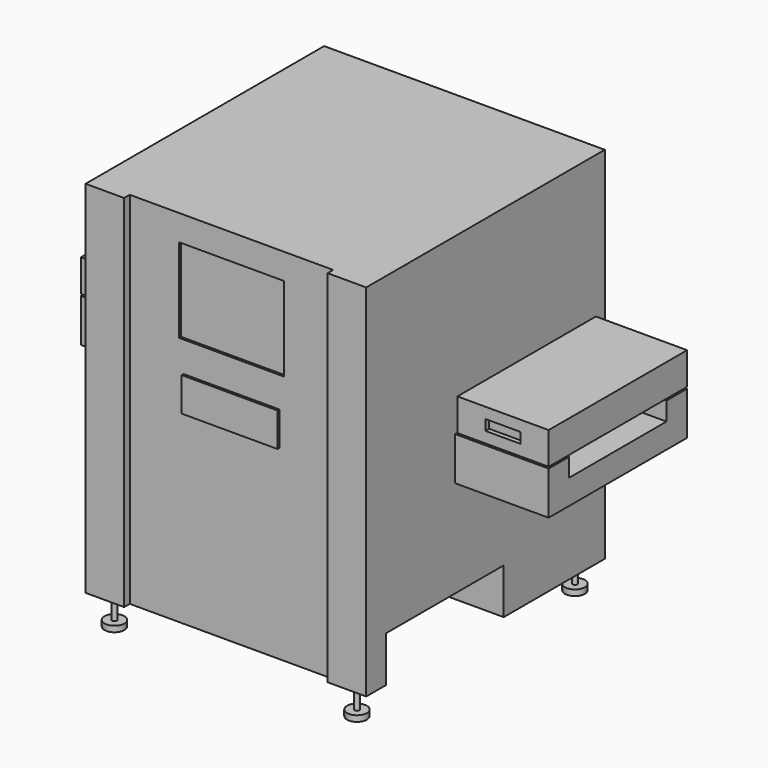
from build123d import *

# Parameters (mm, degrees)
F0_W       = 1200
F0_H       = 1275
F1_DEPTH   = 1540
F2_W       = 1200
F2_H       = 630
F3_DEPTH   = 195
F4_W       = 870
F4_H       = 1540
F5_DEPTH   = 30
F6_W       = 740
F6_H       = 330
F7_DEPTH   = 400
F7_FACE_W  = 740
F7_FACE_H  = 330
F8_DEPTH   = 2000
F9_W       = 520
F9_H       = 80
F10_DEPTH  = 2000.001
F11_W      = 450
F11_H      = 360
F12_DEPTH  = 20
F12_FACE_W = 450
F12_FACE_H = 360
F13_DEPTH  = 10
F14_W      = 10
F14_H      = 145
F15_DEPTH  = 800.001
F16_W      = 10
F16_H      = 145
F17_DEPTH  = 800.001
F18_W      = 390
F18_H      = 7
F19_DEPTH  = 15
F20_W      = 390
F20_H      = 7
F21_DEPTH  = 15
F22_W      = 725
F22_H      = 7
F23_DEPTH  = 15
F24_W      = 375
F24_H      = 7
F25_DEPTH  = 15
F26_W      = 390
F26_H      = 7
F27_DEPTH  = 15
F28_W      = 710
F28_H      = 7
F29_DEPTH  = 15
F30_W      = 410
F30_H      = 145
F31_DEPTH  = 10
F32_W      = 145.043777
F32_H      = 45
F33_DEPTH  = 30
F33_FACE_W = 145.043778
F33_FACE_H = 45
F34_DEPTH  = 10
F35_W      = 150
F35_H      = 45
F36_DEPTH  = 30
F36_FACE_W = 150
F36_FACE_H = 45
F37_DEPTH  = 10
F39_R      = 42.5
F40_DEPTH  = 25
F41_R      = 10
F42_DEPTH  = 110


with BuildPart() as f1:
    # F0 (on Top) → F1 (new body)
    with BuildSketch(Plane.XY):
        Rectangle(F0_W, F0_H)
    extrude(amount=F1_DEPTH)

    # F2 (on face) → F3 (cut)
    with BuildSketch(Plane(origin=(0, 0, 0), x_dir=(1, 0, 0), z_dir=(0, 0, -1))):
        with Locations((0, 217.5)):
            Rectangle(F2_W, F2_H)
    extrude(amount=-F3_DEPTH, mode=Mode.SUBTRACT)

    # F4 (on face) → F5 (cut)
    with BuildSketch(Plane.XZ.offset(637.5)):
        with Locations((0, 770)):
            Rectangle(F4_W, F4_H)
    extrude(amount=-F5_DEPTH, mode=Mode.SUBTRACT)

    # F6 (on face) → F7 (join)
    with BuildSketch(Plane.YZ.offset(600)):
        with Locations((207.5, 775)):
            Rectangle(F6_W, F6_H)
    extrude(amount=F7_DEPTH)

    # F7_face (on face) → F8 (join)
    with BuildSketch(Plane(origin=(1000, 207.5, 775), x_dir=(0, 1, 0), z_dir=(1, 0, 0))):
        Rectangle(F7_FACE_W, F7_FACE_H)
    extrude(amount=-F8_DEPTH)

    # F9 (on face) → F10 (cut, through all)
    with BuildSketch(Plane.YZ.offset(1000)):
        with Locations((207.5, 756.00878)):
            Rectangle(F9_W, F9_H)
    extrude(amount=-F10_DEPTH, mode=Mode.SUBTRACT)

    # F11 (on face) → F12 (cut)
    with BuildSketch(Plane.XZ.offset(607.5)):
        with Locations((0, 1250)):
            Rectangle(F11_W, F11_H)
    extrude(amount=-F12_DEPTH, mode=Mode.SUBTRACT)

    # F14 (on face) → F15 (cut, through all)
    with BuildSketch(Plane.XZ.offset(162.5)):
        with Locations((605, 867.5)):
            Rectangle(F14_W, F14_H)
    extrude(amount=-F15_DEPTH, mode=Mode.SUBTRACT)

    # F16 (on face) → F17 (cut, through all)
    with BuildSketch(Plane.XZ.offset(162.5)):
        with Locations((-605, 867.5)):
            Rectangle(F16_W, F16_H)
    extrude(amount=-F17_DEPTH, mode=Mode.SUBTRACT)

    # F18 (on face) → F19 (cut)
    with BuildSketch(Plane.XZ.offset(162.5)):
        with Locations((-805, 798.5)):
            Rectangle(F18_W, F18_H)
    extrude(amount=-F19_DEPTH, mode=Mode.SUBTRACT)

    # F20 (on face) → F21 (cut)
    with BuildSketch(Plane.XZ.offset(162.5)):
        with Locations((805, 798.5)):
            Rectangle(F20_W, F20_H)
    extrude(amount=-F21_DEPTH, mode=Mode.SUBTRACT)

    # F22 (on face) → F23 (cut)
    with BuildSketch(Plane.YZ.offset(1000)):
        with Locations((215, 798.5)):
            Rectangle(F22_W, F22_H)
    extrude(amount=-F23_DEPTH, mode=Mode.SUBTRACT)

    # F24 (on face) → F25 (cut)
    with BuildSketch(Plane(origin=(0, 577.5, 0), x_dir=(-1, 0, 0), z_dir=(0, 1, 0))):
        with Locations((-797.5, 798.5)):
            Rectangle(F24_W, F24_H)
    extrude(amount=-F25_DEPTH, mode=Mode.SUBTRACT)

    # F26 (on face) → F27 (cut)
    with BuildSketch(Plane(origin=(0, 577.5, 0), x_dir=(-1, 0, 0), z_dir=(0, 1, 0))):
        with Locations((805, 798.5)):
            Rectangle(F26_W, F26_H)
    extrude(amount=-F27_DEPTH, mode=Mode.SUBTRACT)

    # F28 (on face) → F29 (cut)
    with BuildSketch(Plane(origin=(-1000, 0, 0), x_dir=(0, -1, 0), z_dir=(-1, 0, 0))):
        with Locations((-207.5, 798.5)):
            Rectangle(F28_W, F28_H)
    extrude(amount=-F29_DEPTH, mode=Mode.SUBTRACT)

    # F30 (on face) → F31 (join)
    with BuildSketch(Plane.XZ.offset(607.5)):
        with Locations((0, 867.5)):
            Rectangle(F30_W, F30_H)
    extrude(amount=F31_DEPTH)

    # F32 (on face) → F33 (cut)
    with BuildSketch(Plane.XZ.offset(162.5)):
        with Locations((-807.478112, 871.5)):
            Rectangle(F32_W, F32_H)
    extrude(amount=-F33_DEPTH, mode=Mode.SUBTRACT)

    # F35 (on face) → F36 (cut)
    with BuildSketch(Plane.XZ.offset(162.5)):
        with Locations((805, 871.5)):
            Rectangle(F35_W, F35_H)
    extrude(amount=-F36_DEPTH, mode=Mode.SUBTRACT)


with BuildPart() as f13:
    # F12_face (on face) → F13 (new body)
    with BuildSketch(Plane(origin=(0, -587.5, 1250), x_dir=(1, 0, 0), z_dir=(0, -1, 0))):
        Rectangle(F12_FACE_W, F12_FACE_H)
    extrude(amount=F13_DEPTH)


with BuildPart() as f34:
    # F33_face (on face) → F34 (new body)
    with BuildSketch(Plane(origin=(-807.478111, -132.5, 871.5), x_dir=(1, 0, 0), z_dir=(0, -1, 0))):
        Rectangle(F33_FACE_W, F33_FACE_H)
    extrude(amount=F34_DEPTH)


with BuildPart() as f37:
    # F36_face (on face) → F37 (new body)
    with BuildSketch(Plane(origin=(805, -132.5, 871.5), x_dir=(1, 0, 0), z_dir=(0, -1, 0))):
        Rectangle(F36_FACE_W, F36_FACE_H)
    extrude(amount=F37_DEPTH)


with BuildPart() as f37_1:
    # F38: moved
    add(f37.part.moved(Location((0, 0, 120))))


with BuildPart() as f34_1:
    # F38: moved
    add(f34.part.moved(Location((0, 0, 120))))


with BuildPart() as f13_1:
    # F38: moved
    add(f13.part.moved(Location((0, 0, 120))))


with BuildPart() as f1_1:
    # F38: moved
    add(f1.part.moved(Location((0, 0, 120))))


with BuildPart() as f40:
    # F39 (on Top) → F40 (new body)
    with BuildSketch(Plane.XY):
        Circle(F39_R)
    extrude(amount=F40_DEPTH)

    # F41 (on face) → F42 (join)
    with BuildSketch(Plane.XY.offset(25)):
        Circle(F41_R)
    extrude(amount=F42_DEPTH)


with BuildPart() as f40_1:
    # F43: moved
    add(f40.part.moved(Location((-517, 0, 0))))


with BuildPart() as f44_1:
    # F44: copy of F40
    add(f40_1.part.moved(Location((1037, 0, 0))))


with BuildPart() as f44_1_1:
    # F45: moved
    add(f44_1.part.moved(Location((0, -587, 0))))


with BuildPart() as f40_2:
    # F45: moved
    add(f40_1.part.moved(Location((0, -587, 0))))


with BuildPart() as f46_1:
    # F46: copy of F44_1
    add(f44_1_1.part.moved(Location((0, 1165, 0))))


with BuildPart() as f46_2:
    # F46: copy of F40
    add(f40_2.part.moved(Location((0, 1165, 0))))


solid = Compound([f37_1.part, f34_1.part, f13_1.part, f1_1.part, f44_1_1.part, f40_2.part, f46_1.part, f46_2.part])
